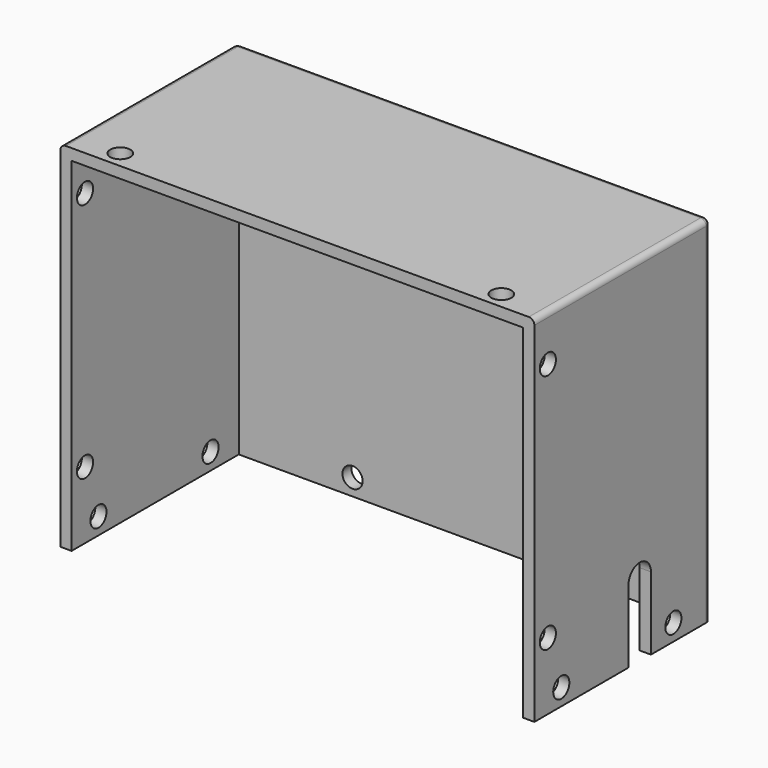
from build123d import *

# Parameters (mm, degrees)
CYLINDER009_R     = 1.8
CYLINDER009_DEPTH = 16
ARRAY009_X_COUNT  = 2
ARRAY009_X_PITCH  = 40
CYLINDER010_R     = 1.8
CYLINDER010_DEPTH = 20
ARRAY010_X_COUNT  = 2
ARRAY010_X_PITCH  = 80
ARRAY010_Z_COUNT  = 2
ARRAY010_Z_PITCH  = 43
CYLINDER011_R     = 1.8
CYLINDER011_DEPTH = 10
ARRAY011_X_COUNT  = 2
ARRAY011_X_PITCH  = 68
PAD005_DEPTH      = 10
CYLINDER008_R     = 1.8
CYLINDER008_DEPTH = 20
ARRAY008_X_COUNT  = 2
ARRAY008_X_PITCH  = 80
ARRAY008_Y_COUNT  = 2
ARRAY008_Y_PITCH  = 25
BOX005_W          = 2
BOX005_H          = 37.3
BOX005_DEPTH      = 61.3
BOX007_W          = 84.6
BOX007_H          = 2
BOX007_DEPTH      = 63.3
BOX006_W          = 84.6
BOX006_H          = 37.3
BOX006_DEPTH      = 2
BOX004_W          = 2
BOX004_H          = 37.3
BOX004_DEPTH      = 61.3
FILLET_R          = 1


with BuildPart() as cover_bottom_hole_array:
    # Cylinder009 → Cylinder009 (new body)
    with BuildSketch(Plane(origin=(20, 45, 3), x_dir=(1, 0, 0), z_dir=(0, -1, 0))):
        Circle(CYLINDER009_R)
    extrude(amount=CYLINDER009_DEPTH)

    # Array009 X: cover bottom hole array ×2


with BuildPart() as cover_bottom_hole_array_1:
    add(cover_bottom_hole_array.part)
    with Locations(*[(i * ARRAY009_X_PITCH, 0, 0) for i in range(1, ARRAY009_X_COUNT)]):
        add(cover_bottom_hole_array.part)


with BuildPart() as cover_bottom_hole_array_2:
    # Array009 placement: moved
    add(cover_bottom_hole_array_1.part.moved(Location((-40, 0, 0))))


with BuildPart() as cover_side_holes_array:
    # Cylinder010 → Cylinder010 (new body)
    with BuildSketch(Plane(origin=(-50, 3, 6), x_dir=(0, 0, -1), z_dir=(1, 0, 0))):
        Circle(CYLINDER010_R)
    extrude(amount=CYLINDER010_DEPTH)

    # Array010 X: cover side holes array ×2


with BuildPart() as cover_side_holes_array_1:
    add(cover_side_holes_array.part)
    with Locations(*[(i * ARRAY010_X_PITCH, 0, 0) for i in range(1, ARRAY010_X_COUNT)]):
        add(cover_side_holes_array.part)

    # Array010 Z: cover side holes array ×2


with BuildPart() as cover_side_holes_array_2:
    add(cover_side_holes_array_1.part)
    with Locations(*[(0, 0, i * ARRAY010_Z_PITCH) for i in range(1, ARRAY010_Z_COUNT)]):
        add(cover_side_holes_array_1.part)


with BuildPart() as cover_side_holes_array_3:
    # Array010 placement: moved
    add(cover_side_holes_array_2.part.moved(Location((0, 0, 6))))


with BuildPart() as cover_vertical_hole_array:
    # Cylinder011 → Cylinder011 (new body)
    with BuildSketch(Plane(origin=(6, 0, 50), x_dir=(1, 0, 0), z_dir=(0, 0, 1))):
        Circle(CYLINDER011_R)
    extrude(amount=CYLINDER011_DEPTH)

    # Array011 X: cover vertical hole array ×2


with BuildPart() as cover_vertical_hole_array_1:
    add(cover_vertical_hole_array.part)
    with Locations(*[(i * ARRAY011_X_PITCH, 0, 0) for i in range(1, ARRAY011_X_COUNT)]):
        add(cover_vertical_hole_array.part)


with BuildPart() as cover_vertical_hole_array_2:
    # Array011 placement: moved
    add(cover_vertical_hole_array_1.part.moved(Location((-40, 3, 6))))


with BuildPart() as wire_hole_body:
    # Sketch015 → Pad005 (new body)
    with BuildSketch(Plane.YZ.offset(42.3)):
        with BuildLine():
            Line((26, 0), (26, 13))
            ThreePointArc((26, 13), (23.5, 15.5), (21, 13))
            Line((21, 0), (21, 13))
            Line((21, 0), (26, 0))
        make_face()
    extrude(amount=-PAD005_DEPTH)


with BuildPart() as cover_extraction:
    # Cylinder008 → Cylinder008 (new body)
    with BuildSketch(Plane(origin=(-50, 6, 3), x_dir=(0, 0, -1), z_dir=(1, 0, 0))):
        Circle(CYLINDER008_R)
    extrude(amount=CYLINDER008_DEPTH)

    # Array008 X: cover extraction ×2


with BuildPart() as cover_extraction_1:
    add(cover_extraction.part)
    with Locations(*[(i * ARRAY008_X_PITCH, 0, 0) for i in range(1, ARRAY008_X_COUNT)]):
        add(cover_extraction.part)

    # Array008 Y: cover extraction ×2


with BuildPart() as cover_extraction_2:
    add(cover_extraction_1.part)
    with Locations(*[(0, i * ARRAY008_Y_PITCH, 0) for i in range(1, ARRAY008_Y_COUNT)]):
        add(cover_extraction_1.part)

    # Fusion003005: union cover bottom hole array, cover side holes array, cover vertical hole array, wire hole body
    add(cover_bottom_hole_array_2.part)
    add(cover_side_holes_array_3.part)
    add(cover_vertical_hole_array_2.part)
    add(wire_hole_body.part)


with BuildPart() as another_side_wall_cube:
    # Box005 → Box005 (new body)
    with BuildSketch(Plane(origin=(40.3, 0, 0), x_dir=(1, 0, 0), z_dir=(0, 0, 1))):
        with Locations((1, 18.65)):
            Rectangle(BOX005_W, BOX005_H)
    extrude(amount=BOX005_DEPTH)


with BuildPart() as back_cover_wall_cube:
    # Box007 → Box007 (new body)
    with BuildSketch(Plane(origin=(-42.3, 37.3, 0), x_dir=(1, 0, 0), z_dir=(0, 0, 1))):
        with Locations((42.3, 1)):
            Rectangle(BOX007_W, BOX007_H)
    extrude(amount=BOX007_DEPTH)


with BuildPart() as top_cover_wall_cube:
    # Box006 → Box006 (new body)
    with BuildSketch(Plane(origin=(-42.3, 0, 61.3), x_dir=(1, 0, 0), z_dir=(0, 0, 1))):
        with Locations((42.3, 18.65)):
            Rectangle(BOX006_W, BOX006_H)
    extrude(amount=BOX006_DEPTH)


with BuildPart() as cover_body_fillet:
    # Box004 → Box004 (new body)
    with BuildSketch(Plane(origin=(-42.3, 0, 0), x_dir=(1, 0, 0), z_dir=(0, 0, 1))):
        with Locations((1, 18.65)):
            Rectangle(BOX004_W, BOX004_H)
    extrude(amount=BOX004_DEPTH)

    # Fusion003004: union another side wall cube, back cover wall cube, top cover wall cube
    add(another_side_wall_cube.part)
    add(back_cover_wall_cube.part)
    add(top_cover_wall_cube.part)

    # Cut004: cut cover extraction
    add(cover_extraction_2.part, mode=Mode.SUBTRACT)

    # Fillet
    fillet_edges = [cover_body_fillet.edges().sort_by_distance(p)[0] for p in [
        (-42.3, 18.65, 63.3),
        (-42.3, 38.3, 63.3),
        (-42.3, 39.3, 31.65),
        (42.3, 18.65, 63.3),
        (0, 39.3, 63.3),
        (42.3, 38.3, 63.3),
        (42.3, 39.3, 31.65),
    ]]
    fillet(fillet_edges, radius=FILLET_R)


solid = cover_body_fillet.part
